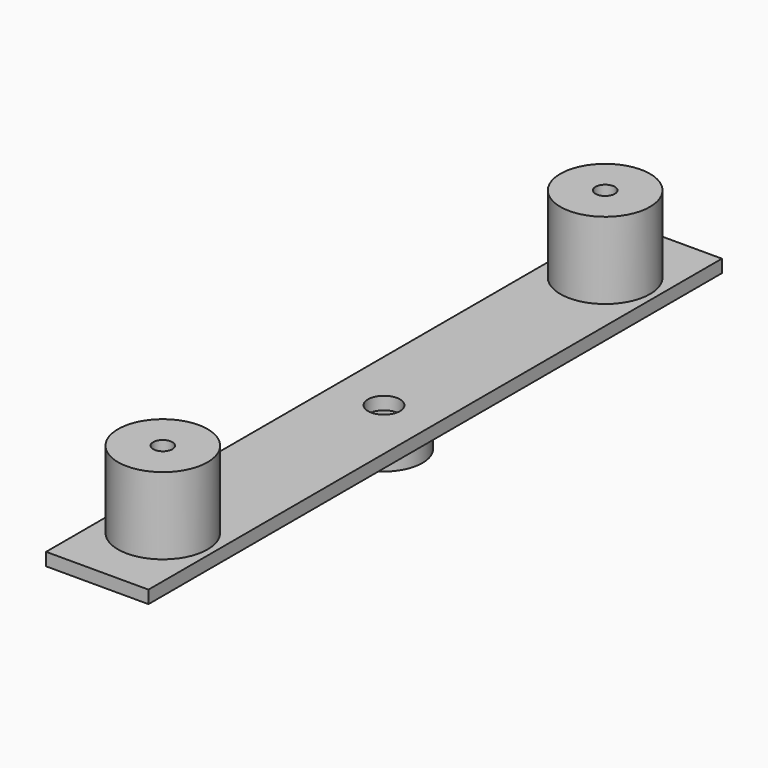
from build123d import *

# Parameters (mm, degrees)
F0_W     = 25.4
F0_H     = 177.8
F0_R     = 2.38125
F0_R_2   = 3.96875
F1_DEPTH = 3.175
F2_R     = 9.525
F2_R_2   = 4.2164
F3_DEPTH = 6.35
F4_R     = 11.1125
F4_R_2   = 2.38125
F5_DEPTH = 19.05


with BuildPart() as f1:
    # F0 (on Top) → F1 (new body)
    with BuildSketch(Plane.XY):
        Rectangle(F0_W, F0_H)
        with Locations((0, -68.58)):
            Circle(F0_R, mode=Mode.SUBTRACT)
        Circle(F0_R_2, mode=Mode.SUBTRACT)
        with Locations((0, 68.58)):
            Circle(F0_R, mode=Mode.SUBTRACT)
    extrude(amount=F1_DEPTH)


with BuildPart() as f3:
    # F2 (on face) → F3 (new body)
    with BuildSketch(Plane(origin=(0, 0, 0), x_dir=(1, 0, 0), z_dir=(0, 0, -1))):
        Circle(F2_R)
        Circle(F2_R_2, mode=Mode.SUBTRACT)
    extrude(amount=F3_DEPTH)


with BuildPart() as f5:
    # F4 (on face) → F5 (new body)
    with BuildSketch(Plane.XY.offset(3.175)):
        with Locations((0, -68.58)):
            Circle(F4_R)
        with Locations((0, -68.58)):
            Circle(F4_R_2, mode=Mode.SUBTRACT)
    extrude(amount=F5_DEPTH)


with BuildPart() as f6_1:
    # F6: instance of F5
    add(f5.part.mirror(Plane.XZ))


solid = Compound([f1.part, f3.part, f5.part, f6_1.part])
